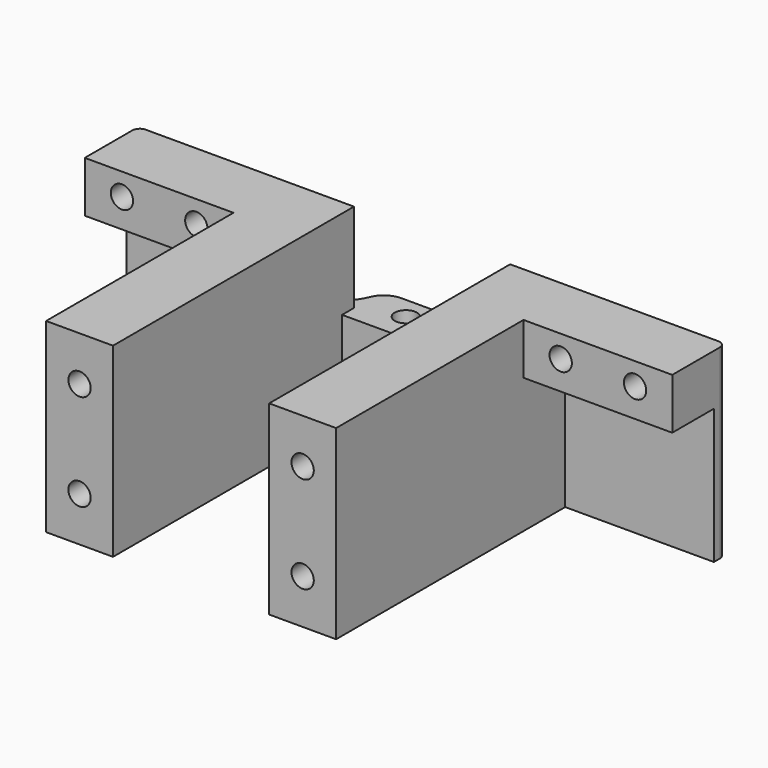
from build123d import *

# Parameters (mm, degrees)
SKETCH_W        = 79
SKETCH_H        = 25
PAD_DEPTH       = 2
SKETCH001_W     = 21
SKETCH001_H     = 25
PAD001_DEPTH    = 4.85
SKETCH002_R     = 1.5
POCKET_DEPTH    = 25.001
SKETCH003_W     = 21
SKETCH003_H     = 12
POCKET001_DEPTH = 10
PAD002_DEPTH    = 6.85
SKETCH005_W     = 9
SKETCH005_H     = 38.5
PAD003_DEPTH    = 18.15
SKETCH006_R     = 1.5
POCKET002_DEPTH = 10
SKETCH007_R     = 1.5
POCKET003_DEPTH = 22
FILLET_R        = 4.5
FILLET001_R     = 3
FILLET002_R     = 1


with BuildPart() as part:
    # Sketch → Pad (new body)
    with BuildSketch(Plane.XZ):
        Rectangle(SKETCH_W, SKETCH_H)
    extrude(amount=PAD_DEPTH)

    # Sketch001 (on Face5 of Pad) → Pad001 (join)
    with BuildSketch(Plane(origin=(0, 0, 0), x_dir=(1, 0, 0), z_dir=(0, 1, 0))):
        Rectangle(SKETCH001_W, SKETCH001_H)
    extrude(amount=PAD001_DEPTH)

    # Sketch002 (on Face5 of Pad001) → Pocket (cut, through all)
    with BuildSketch(Plane(origin=(0, 0, 12.5), x_dir=(-1, 0, 0), z_dir=(0, 0, 1))):
        with Locations((-5, -1.85)):
            Circle(SKETCH002_R)
        with Locations((5, -1.85)):
            Circle(SKETCH002_R)
    extrude(amount=-POCKET_DEPTH, mode=Mode.SUBTRACT)

    # Sketch003 (on Face11 of Pocket) → Pocket001 (cut)
    with BuildSketch(Plane(origin=(0, 4.85, 0), x_dir=(1, 0, 0), z_dir=(0, 1, 0))):
        with Locations((0, -6.5)):
            Rectangle(SKETCH003_W, SKETCH003_H)
    extrude(amount=-POCKET001_DEPTH, mode=Mode.SUBTRACT)

    # Sketch004 (on DatumPlane) → Pad002 (join)
    with BuildSketch(Plane(origin=(0, -12.5, 12.5), x_dir=(-1, 0, 0), z_dir=(0, 0, 1))):
        Polygon((39.5, -10.5), (10.5, -10.5), (10.5, 28), (19.5, 28), (19.5, -3.5), (39.5, -3.5), align=None)
        Polygon((-10.5, -10.5), (-10.5, 28), (-19.5, 28), (-19.5, -3.5), (-39.5, -3.5), (-39.5, -10.5), align=None)
    extrude(amount=-PAD002_DEPTH)

    # Sketch005 (on Face21 of Pad002) → Pad003 (join)
    with BuildSketch(Plane(origin=(0, 0, 5.65), x_dir=(1, 0, 0), z_dir=(0, 0, -1))):
        with Locations((-15, 21.25)):
            Rectangle(SKETCH005_W, SKETCH005_H)
        with Locations((15, 21.25)):
            Rectangle(SKETCH005_W, SKETCH005_H)
    extrude(amount=PAD003_DEPTH)

    # Sketch006 (on Face17 of Pad003) → Pocket002 (cut)
    with BuildSketch(Plane(origin=(0, 0, 0), x_dir=(1, 0, 0), z_dir=(0, 1, 0))):
        with Locations((-34.5, -9.5)):
            Circle(SKETCH006_R)
        with Locations((-24.5, -9.5)):
            Circle(SKETCH006_R)
        with Locations((24.5, -9.5)):
            Circle(SKETCH006_R)
        with Locations((34.5, -9.5)):
            Circle(SKETCH006_R)
    extrude(amount=-POCKET002_DEPTH, mode=Mode.SUBTRACT)

    # Sketch007 (on Face26 of Pocket002) → Pocket003 (cut)
    with BuildSketch(Plane.XZ.offset(40.5)):
        with Locations((-15, 6.5)):
            Circle(SKETCH007_R)
        with Locations((-15, -6.5)):
            Circle(SKETCH007_R)
        with Locations((15, 6.5)):
            Circle(SKETCH007_R)
        with Locations((15, -6.5)):
            Circle(SKETCH007_R)
    extrude(amount=-POCKET003_DEPTH, mode=Mode.SUBTRACT)

    # Fillet
    fillet_edges = [part.edges().sort_by_distance(p)[0] for p in [
        (10.5, 0, -6),
        (-10.5, 0, -6),
    ]]
    fillet(fillet_edges, radius=FILLET_R)

    # Fillet001
    fillet001_edges = [part.edges().sort_by_distance(p)[0] for p in [
        (10.5, 4.85, -6),
        (-10.5, 4.85, -6),
    ]]
    fillet(fillet001_edges, radius=FILLET001_R)

    # Fillet002
    fillet002_edges = [part.edges().sort_by_distance(p)[0] for p in [
        (39.5, 0, 0),
        (-39.5, 0, 0),
    ]]
    fillet(fillet002_edges, radius=FILLET002_R)


solid = part.part
